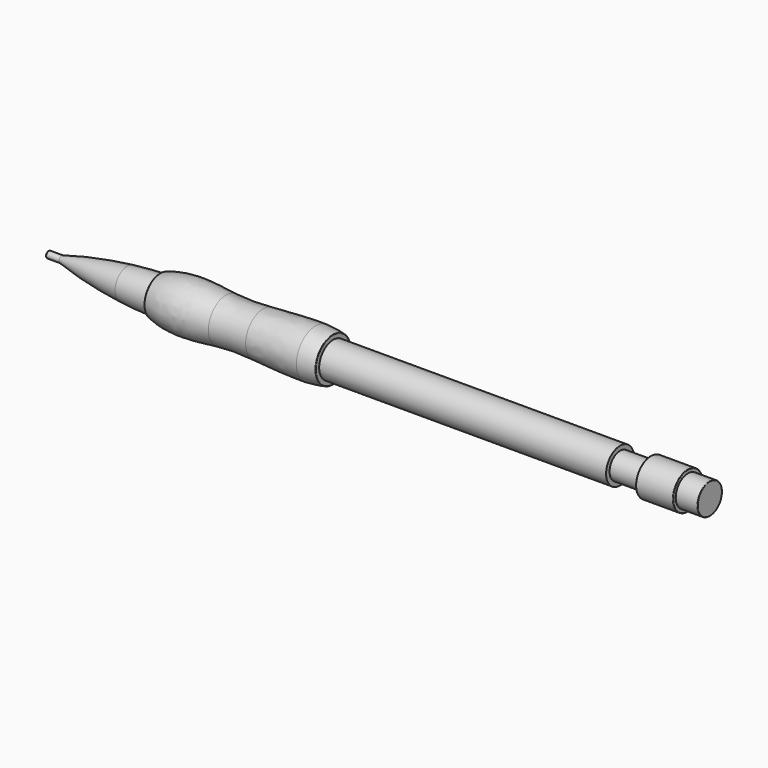
from build123d import *

# Parameters (mm, degrees)
F0_W   = 3
F0_H   = 0.75
F0_W_2 = 7
F0_H_2 = 3
F0_W_3 = 5
F0_H_3 = 3.5
F2_R   = 0.1


with BuildPart() as f1:
    # F0 (on Front) → F1 (revolve)
    with BuildSketch(Plane.XZ):
        with Locations((-71.9665248876, 0.375)):
            Rectangle(F0_W, F0_H)
        with BuildLine():
            Line((-70.4665248876, 0.75), (-70.4665248876, 0))
            Line((-70.4665248876, 0), (-55.4665248876, 0))
            Line((-55.4665248876, 0), (-55.4665248876, 3.5))
            add(Edge.make_bspline(
                [(-70.4665248876, 0.75), (-65.116904676, 2.2459016182), (-59.6361180256, 3.0607274392), (-55.4665248876, 3.5)],
                knots=[0, 0, 0, 0, 0.5875217021, 0.5875217021, 0.5875217021, 0.5875217021], degree=3))
        make_face()
        with BuildLine():
            Line((-55.4665248876, 3.5), (-55.4665248876, 0))
            Line((-55.4665248876, 0), (-47.9665248876, 0))
            Line((-47.9665248876, 0), (-47.9665248876, 4))
            add(Edge.make_bspline(
                [(-55.4665248876, 3.5), (-52.539200375, 3.8083977962), (-50.2581565405, 3.9316872821), (-47.9665248876, 4)],
                knots=[0.5875217021, 0.5875217021, 0.5875217021, 0.5875217021, 1, 1, 1, 1], degree=3))
        make_face()
        with BuildLine():
            Line((-47.9665248876, 4), (-47.9665248876, 0))
            Line((-47.9665248876, 0), (-32.9665248876, 0))
            Line((-32.9665248876, 0), (-32.9665248876, 5))
            add(Edge.make_bspline(
                [(-47.9665248876, 4.5), (-42.5673648715, 6.3896374777), (-37.0415236189, 5.3707585183), (-32.9665248876, 5)],
                knots=[0, 0, 0, 0, 0.3159168584, 0.3159168584, 0.3159168584, 0.3159168584], degree=3))
            Line((-47.9665248876, 4.5), (-47.9665248876, 4))
        make_face()
        with BuildLine():
            Line((-32.9665248876, 5), (-32.9665248876, 0))
            Line((-32.9665248876, 0), (-24.4665248876, 0))
            Line((-24.4665248876, 0), (-24.4665248876, 5))
            add(Edge.make_bspline(
                [(-32.9665248876, 5), (-29.8998287882, 4.7209805998), (-27.6548204176, 4.8090255814), (-24.4665248876, 5)],
                knots=[0.3159168584, 0.3159168584, 0.3159168584, 0.3159168584, 0.5536644164, 0.5536644164, 0.5536644164, 0.5536644164], degree=3))
        make_face()
        with BuildLine():
            Line((-24.4665248876, 5), (-24.4665248876, 0))
            Line((-24.4665248876, 0), (-12.4665248876, 0))
            Line((-12.4665248876, 0), (-12.4665248876, 5.5))
            add(Edge.make_bspline(
                [(-24.4665248876, 5), (-20.6766221646, 5.2270098435), (-15.5538644345, 5.5994579176), (-12.4665248876, 5.5)],
                knots=[0.5536644164, 0.5536644164, 0.5536644164, 0.5536644164, 0.8362731361, 0.8362731361, 0.8362731361, 0.8362731361], degree=3))
        make_face()
        with BuildLine():
            Line((-12.4665248876, 5.5), (-12.4665248876, 0))
            Line((-12.4665248876, 0), (-8.4665248876, 0))
            Line((-8.4665248876, 0), (-8.4665248876, 4))
            Line((-8.4665248876, 4), (-8.4665248876, 5))
            add(Edge.make_bspline(
                [(-12.4665248876, 5.5), (-10.6779020079, 5.4423799345), (-9.5724391153, 5.2263711438), (-8.4665248876, 5)],
                knots=[0.8362731361, 0.8362731361, 0.8362731361, 0.8362731361, 1, 1, 1, 1], degree=3))
        make_face()
        Polygon((-8.4665248876, 4), (-8.4665248876, 0), (57.0334751124, 0), (57.0334751124, 3), (57.0334751124, 4), align=None)
        with Locations((60.5334751124, 1.5)):
            Rectangle(F0_W_2, F0_H_2)
        Polygon((64.0334751124, 3), (64.0334751124, 0), (72.5334751124, 0), (72.5334751124, 3.5), (72.5334751124, 4.25), (64.0334751124, 4.25), align=None)
        with Locations((75.0334751124, 1.75)):
            Rectangle(F0_W_3, F0_H_3)
    revolve(axis=Axis((2.0334751124, 0, 0), (1, 0, 0)))

    # F2
    f2_edges = [f1.edges().sort_by_distance(p)[0] for p in [
        (-73.466525, 0, -0.75),
        (-47.966525, 0, -4.5),
        (-8.466525, 0, -5),
        (72.533475, 0, -4.25),
        (77.533475, 0, -3.5),
        (64.033475, 0, -4.25),
    ]]
    fillet(f2_edges, radius=F2_R)


solid = f1.part
